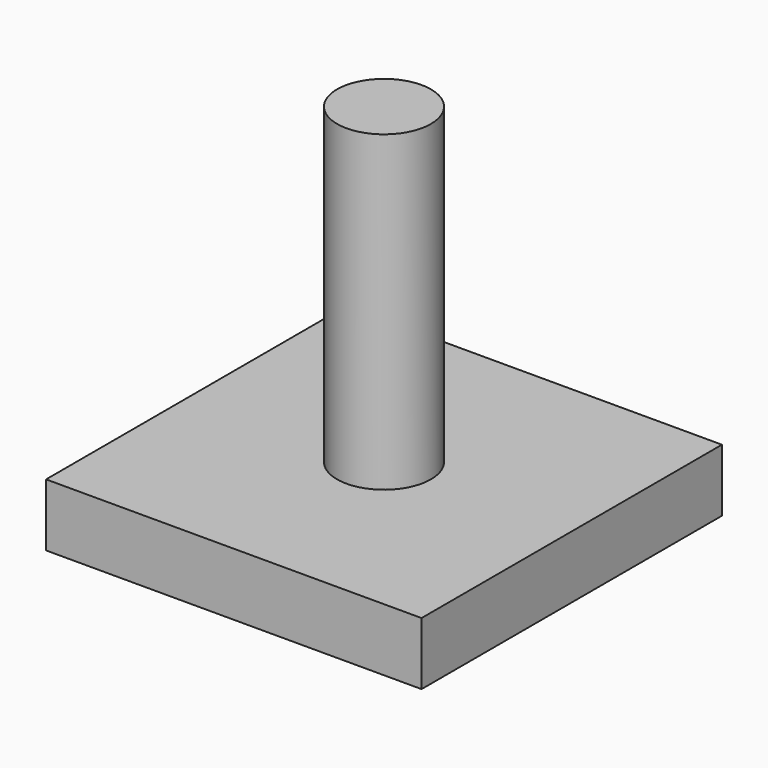
from build123d import *

# Parameters (mm, degrees)
F0_W     = 12
F0_H     = 12
F1_DEPTH = 2
F2_R     = 1.5
F3_DEPTH = 10
F4_W     = 10
F4_H     = 10
F5_DEPTH = 1


with BuildPart() as f1:
    # F0 (on Top) → F1 (new body)
    with BuildSketch(Plane.XY):
        Rectangle(F0_W, F0_H)
    extrude(amount=F1_DEPTH)

    # F2 (on face) → F3 (join)
    with BuildSketch(Plane.XY.offset(2)):
        Circle(F2_R)
    extrude(amount=F3_DEPTH)

    # F4 (on face) → F5 (cut)
    with BuildSketch(Plane(origin=(0, 0, 0), x_dir=(1, 0, 0), z_dir=(0, 0, -1))):
        Rectangle(F4_W, F4_H)
    extrude(amount=-F5_DEPTH, mode=Mode.SUBTRACT)


solid = f1.part
